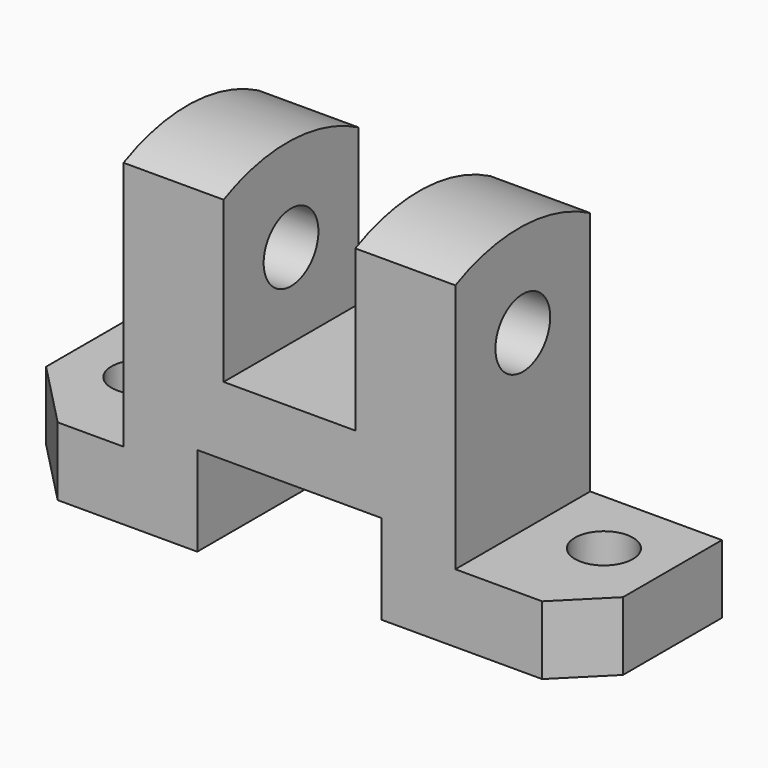
from build123d import *

# Parameters (mm, degrees)
F1_DEPTH  = 32
F2_W      = 35
F2_H      = 17
F4_DEPTH  = 32
F5_DEPTH  = 25
F6_R      = 6.5
F7_DEPTH  = 80
F9_DEPTH  = 80
F11_DEPTH = 25
F13_DEPTH = 25


with BuildPart() as f1:
    # F0 (on Front) → F1 (new body)
    with BuildSketch(Plane.XZ):
        Polygon((0, 0), (39, 0), (74, 0), (113, 0), (113, 13), (88, 13), (88, 64), (69, 64), (69, 30), (44, 30), (44, 64), (25, 64), (25, 13), (0, 13), align=None)
    extrude(amount=-F1_DEPTH)

    # F2 (on face) → F4 (cut)
    with BuildSketch(Plane.XZ):
        with Locations((56.5, 8.5)):
            Rectangle(F2_W, F2_H)
    extrude(amount=-F4_DEPTH, mode=Mode.SUBTRACT)

    # F3 (on face) → F5 (cut)
    with BuildSketch(Plane.XY.offset(13)):
        with BuildLine():
            ThreePointArc((106.5, 19), (101, 24.5), (95.5, 19))
            ThreePointArc((95.5, 19), (101, 13.5), (106.5, 19))
        make_face()
        with BuildLine():
            ThreePointArc((7.5, 19), (13, 13.5), (18.5, 19))
            ThreePointArc((18.5, 19), (13, 24.5), (7.5, 19))
        make_face()
    extrude(amount=-F5_DEPTH, mode=Mode.SUBTRACT)

    # F6 (on face) → F7 (cut)
    with BuildSketch(Plane.YZ.offset(88)):
        with Locations((16, 46)):
            Circle(F6_R)
    extrude(amount=-F7_DEPTH, mode=Mode.SUBTRACT)

    # F8 (on face) → F9 (cut)
    with BuildSketch(Plane.YZ.offset(88)):
        with BuildLine():
            ThreePointArc((0, 60.4506665125), (16.1110103603, 63.8650900471), (32, 59.5334678182))
            Line((32, 59.5334678182), (32, 64))
            Line((32, 64), (0, 64))
            Line((0, 64), (0, 60.4506665125))
        make_face()
    extrude(amount=-F9_DEPTH, mode=Mode.SUBTRACT)

    # F10 (on face) → F11 (cut)
    with BuildSketch(Plane.XY.offset(13)):
        Polygon((104.471758008, 0), (113, 0), (113, 8.528241992), align=None)
    extrude(amount=-F11_DEPTH, mode=Mode.SUBTRACT)

    # F12 (on face) → F13 (cut)
    with BuildSketch(Plane.XY.offset(13)):
        Polygon((0, 12.873), (0, 0), (12.5, 0), align=None)
    extrude(amount=-F13_DEPTH, mode=Mode.SUBTRACT)


solid = f1.part
